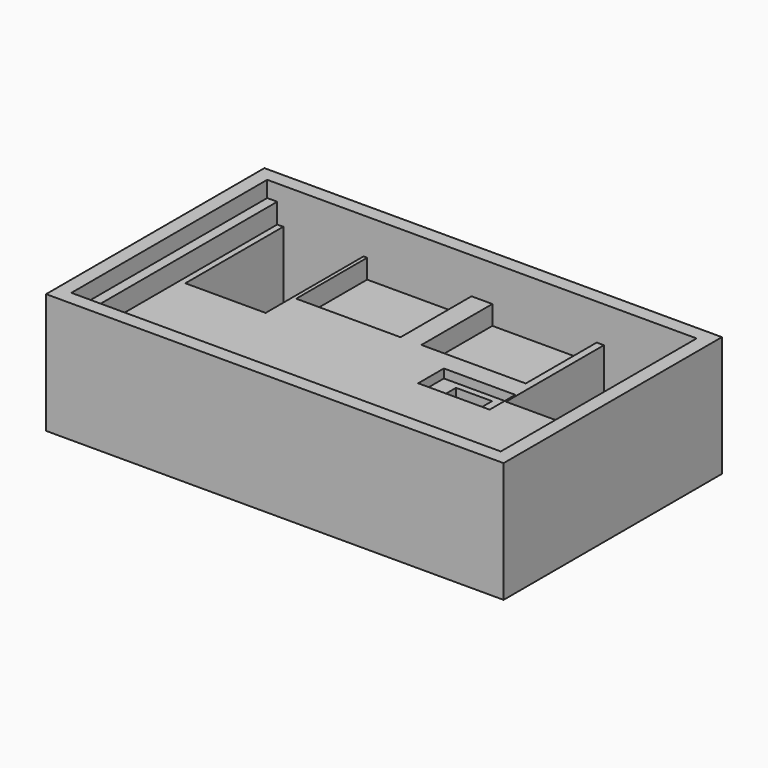
from build123d import *

# Parameters (mm, degrees)
SKETCH_W        = 57
SKETCH_H        = 34
PAD_DEPTH       = 15
SKETCH001_W     = 53.5
SKETCH001_H     = 30.5
POCKET_DEPTH    = 2
SKETCH002_W     = 10
SKETCH002_H     = 15.25
POCKET001_DEPTH = 10.7
SKETCH003_W     = 10
SKETCH003_H     = 4.2
POCKET002_DEPTH = 0.45
SKETCH004_W     = 13
SKETCH004_H     = 11.05
POCKET003_DEPTH = 4.9
SKETCH005_W     = 8.9
SKETCH005_H     = 4
POCKET004_DEPTH = 3.6
SKETCH006_W     = 4.5
SKETCH006_H     = 2.4
POCKET005_DEPTH = 2.1
SKETCH007_W     = 51
SKETCH007_H     = 30.5
POCKET006_DEPTH = 2.5


with BuildPart() as part:
    # Sketch → Pad (new body)
    with BuildSketch(Plane.XY):
        Rectangle(SKETCH_W, SKETCH_H)
    extrude(amount=PAD_DEPTH)

    # Sketch001 (on Face6 of Pad) → Pocket (cut)
    with BuildSketch(Plane.XY.offset(15)):
        Rectangle(SKETCH001_W, SKETCH001_H)
    extrude(amount=-POCKET_DEPTH, mode=Mode.SUBTRACT)

    # Sketch002 (on Face11 of Pocket) → Pocket001 (cut)
    with BuildSketch(Plane.XY.offset(13)):
        with Locations((-19.75, 7.625)):
            Rectangle(SKETCH002_W, SKETCH002_H)
        with Locations((20.2, 7.625)):
            Rectangle(SKETCH002_W, SKETCH002_H)
    extrude(amount=-POCKET001_DEPTH, mode=Mode.SUBTRACT)

    # Sketch003 (on Face18 of Pocket001) → Pocket002 (cut)
    with BuildSketch(Plane.XY.offset(2.3)):
        with Locations((-19.75, 13.15)):
            Rectangle(SKETCH003_W, SKETCH003_H)
        with Locations((20.2, 13.15)):
            Rectangle(SKETCH003_W, SKETCH003_H)
    extrude(amount=-POCKET002_DEPTH, mode=Mode.SUBTRACT)

    # Sketch004 (on Face10 of Pocket002) → Pocket003 (cut)
    with BuildSketch(Plane.XY.offset(13)):
        with Locations((-7.8, 9.725)):
            Rectangle(SKETCH004_W, SKETCH004_H)
        with Locations((7.8, 9.725)):
            Rectangle(SKETCH004_W, SKETCH004_H)
    extrude(amount=-POCKET003_DEPTH, mode=Mode.SUBTRACT)

    # Sketch005 (on Face10 of Pocket003) → Pocket004 (cut)
    with BuildSketch(Plane.XY.offset(13)):
        with Locations((10.55, -0.3)):
            Rectangle(SKETCH005_W, SKETCH005_H)
    extrude(amount=-POCKET004_DEPTH, mode=Mode.SUBTRACT)

    # Sketch006 (on Face36 of Pocket004) → Pocket005 (cut)
    with BuildSketch(Plane.XY.offset(9.4)):
        with Locations((10.5, -0.3)):
            Rectangle(SKETCH006_W, SKETCH006_H)
    extrude(amount=-POCKET005_DEPTH, mode=Mode.SUBTRACT)

    # Sketch007 (on Face11 of Pocket005) → Pocket006 (cut)
    with BuildSketch(Plane.XY.offset(13)):
        Rectangle(SKETCH007_W, SKETCH007_H)
    extrude(amount=-POCKET006_DEPTH, mode=Mode.SUBTRACT)


solid = part.part
